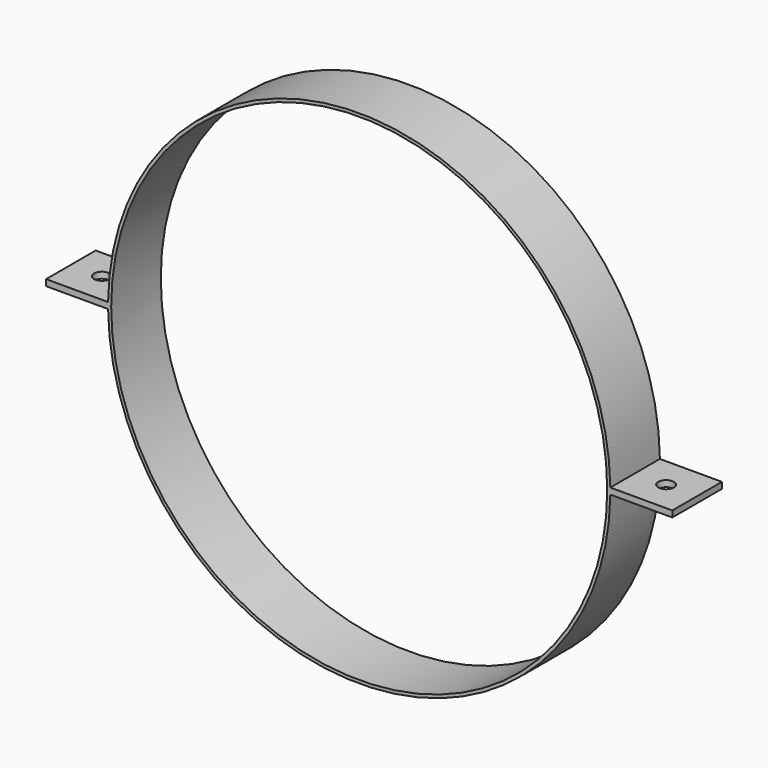
from build123d import *

# Parameters (mm, degrees)
F0_R     = 400
F1_DEPTH = 100
F2_R     = 12.5
F3_DEPTH = 25


with BuildPart() as f1:
    # F0 (on Front) → F1 (new body)
    with BuildSketch(Plane.XZ):
        with BuildLine():
            ThreePointArc((404.969135, -5), (404.992284, -2.500048), (405, 0))
            ThreePointArc((405, 0), (404.992284, 2.500048), (404.969135, 5))
            ThreePointArc((404.969135, 5), (0, 405), (-404.969135, 5))
            ThreePointArc((-404.969135, 5), (-405, 0), (-404.969135, -5))
            ThreePointArc((-404.969135, -5), (0, -405), (404.969135, -5))
        make_face()
        Circle(F0_R, mode=Mode.SUBTRACT)
        with BuildLine():
            ThreePointArc((404.969135, 5), (404.992284, 2.500048), (405, 0))
            ThreePointArc((405, 0), (404.992284, -2.500048), (404.969135, -5))
            Line((404.969135, -5), (504.969135, -5))
            Line((504.969135, -5), (504.969135, 0))
            Line((504.969135, 0), (504.969135, 5))
            Line((504.969135, 5), (404.969135, 5))
        make_face()
        with BuildLine():
            ThreePointArc((-404.969135, -5), (-405, 0), (-404.969135, 5))
            Line((-404.969135, 5), (-504.969135, 5))
            Line((-504.969135, 5), (-504.969135, 0))
            Line((-504.969135, 0), (-504.969135, -5))
            Line((-504.969135, -5), (-404.969135, -5))
        make_face()
    extrude(amount=F1_DEPTH)

    # F2 (on face) → F3 (cut)
    with BuildSketch(Plane.XY.offset(5)):
        with Locations((-454.969135, -50)):
            Circle(F2_R)
        with Locations((454.969135, -50)):
            Circle(F2_R)
    extrude(amount=-F3_DEPTH, mode=Mode.SUBTRACT)


solid = f1.part
